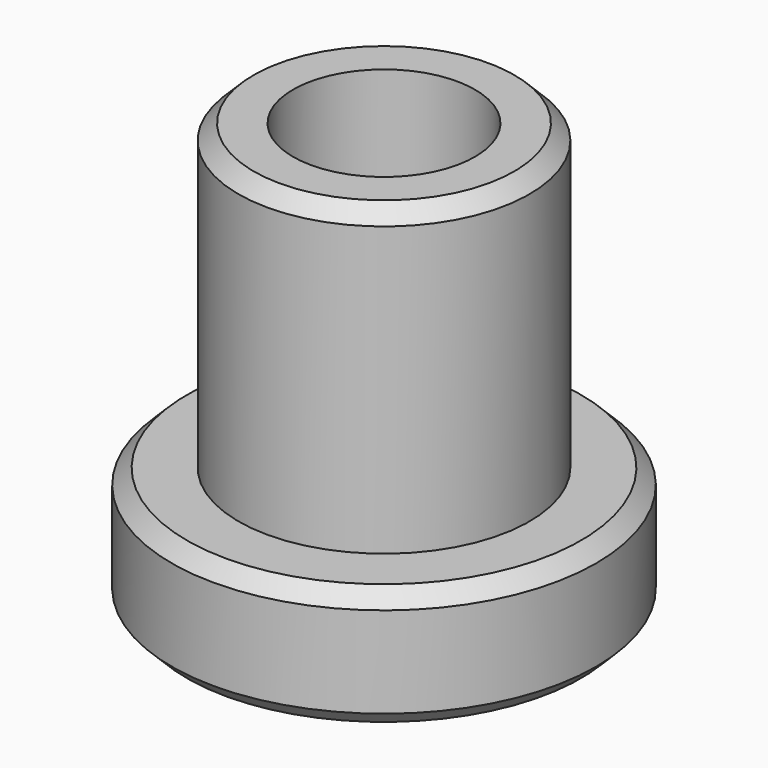
from build123d import *

# Parameters (mm, degrees)
F2_SIZE = 0.25


with BuildPart() as f1:
    # F0 (on Right) → F1 (revolve)
    with BuildSketch(Plane.YZ):
        Polygon((-1.5, 0), (-1.5, 7), (-2.4, 7), (-2.4, 2), (-3.5, 2), (-3.5, 0), align=None)
    revolve(axis=Axis((0, 0, 6.834189), (0, 0, -1)))

    # F2
    f2_edges = [f1.edges().sort_by_distance(p)[0] for p in [
        (0, 2.4, 7),
        (0, 3.5, 2),
        (0, 3.5, 0),
    ]]
    chamfer(f2_edges, length=F2_SIZE)


solid = f1.part
